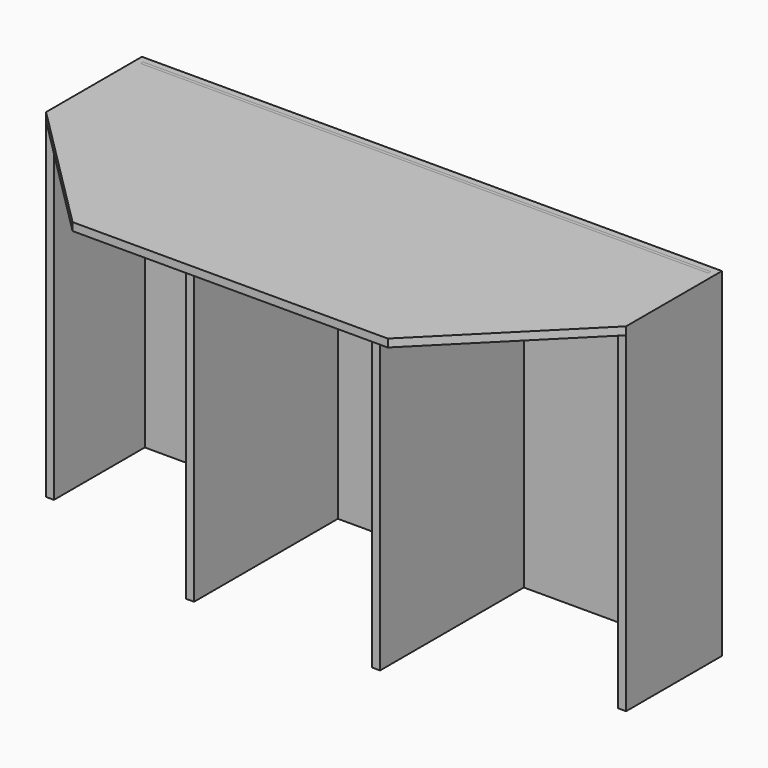
from build123d import *

# Parameters (mm, degrees)
F1_DEPTH  = 15.875
F3_DEPTH  = 666.75
F4_W      = 373.0625
F4_H      = 304.8
F4_H_2    = 50.8
F5_DEPTH  = 225.298
F6_W      = 373.0625
F6_H      = 304.8
F6_H_2    = 50.8
F7_DEPTH  = 225.298
F8_W      = 358.775
F8_H      = 304.8
F8_H_2    = 50.8
F9_DEPTH  = 358.648
F10_R     = 12.7
F11_DEPTH = 25.4
F12_R     = 12.7
F13_DEPTH = 25.4
F14_R     = 12.7
F15_DEPTH = 25.4
F16_R     = 12.7
F17_DEPTH = 25.4
F18_R     = 12.7
F19_DEPTH = 25.4
F20_R     = 12.7
F21_DEPTH = 25.4
F22_R     = 12.7
F23_DEPTH = 25.4
F24_R     = 12.7
F25_DEPTH = 25.4
F26_R     = 12.7
F27_DEPTH = 25.4
F28_W     = 358.775
F28_H     = 3.175
F29_DEPTH = 358.775
F30_W     = 358.775
F30_H     = 3.175
F31_DEPTH = 358.775
F32_W     = 373.0625
F32_H     = 3.175
F33_DEPTH = 225.425
F34_W     = 373.0625
F34_H     = 3.175
F35_DEPTH = 225.425
F36_W     = 373.0625
F36_H     = 3.175
F37_DEPTH = 225.425
F38_W     = 373.0625
F38_H     = 3.175
F39_DEPTH = 225.425
F40_W     = 1143
F40_H     = 6.35
F41_DEPTH = 50.8
F43_DEPTH = 228.6
F45_DEPTH = 228.6
F47_DEPTH = 361.95
F48_W     = 1143
F48_H     = 15.875
F49_DEPTH = 6.35


with BuildPart() as f1:
    # F0 (on Top) → F1 (new body)
    with BuildSketch(Plane.XY):
        Polygon((584.2, 254), (-584.2, 254), (-584.2, 12.7), (-317.5, -254), (317.5, -254), (584.2, 12.7), align=None)
    extrude(amount=F1_DEPTH)

    # F2 (on face) → F3 (join)
    with BuildSketch(Plane(origin=(0, 0, 0), x_dir=(1, 0, 0), z_dir=(0, 0, -1))):
        Polygon((-568.325, -12.7), (-584.2, -12.7), (-584.2, -254), (-568.325, -254), (568.325, -254), (584.2, -254), (584.2, -12.7), (568.325, -12.7), (568.325, -238.125), (195.2625, -238.125), (179.3875, -238.125), (-179.3875, -238.125), (-195.2625, -238.125), (-568.325, -238.125), align=None)
        Polygon((-195.2625, 120.65), (-195.2625, -238.125), (-179.3875, -238.125), (-179.3875, 120.65), (-187.325, 120.65), align=None)
        Polygon((179.3875, 120.65), (179.3875, -238.125), (195.2625, -238.125), (195.2625, 120.65), (187.325, 120.65), align=None)
    extrude(amount=F3_DEPTH)

    # F4 (on face) → F5 (join)
    with BuildSketch(Plane.XZ.offset(-238.125)):
        with Locations((-381.79375, -514.35)):
            Rectangle(F4_W, F4_H)
        with Locations((-381.79375, -206.375)):
            Rectangle(F4_W, F4_H)
        with Locations((-381.79375, -25.4)):
            Rectangle(F4_W, F4_H_2)
    extrude(amount=F5_DEPTH)

    # F6 (on face) → F7 (join)
    with BuildSketch(Plane.XZ.offset(-238.125)):
        with Locations((381.79375, -514.35)):
            Rectangle(F6_W, F6_H)
        with Locations((381.79375, -206.375)):
            Rectangle(F6_W, F6_H)
        with Locations((381.79375, -25.4)):
            Rectangle(F6_W, F6_H_2)
    extrude(amount=F7_DEPTH)

    # F8 (on face) → F9 (join)
    with BuildSketch(Plane.XZ.offset(-238.125)):
        with Locations((0, -514.35)):
            Rectangle(F8_W, F8_H)
        with Locations((0, -206.375)):
            Rectangle(F8_W, F8_H)
        with Locations((0, -25.4)):
            Rectangle(F8_W, F8_H_2)
    extrude(amount=F9_DEPTH)

    # F10 (on face) → F11 (join)
    with BuildSketch(Plane.XZ.offset(-12.827)):
        with Locations((-381.79375, -514.35)):
            Circle(F10_R)
    extrude(amount=F11_DEPTH)

    # F12 (on face) → F13 (join)
    with BuildSketch(Plane.XZ.offset(-12.827)):
        with Locations((-381.79375, -206.375)):
            Circle(F12_R)
    extrude(amount=F13_DEPTH)

    # F14 (on face) → F15 (join)
    with BuildSketch(Plane.XZ.offset(-12.827)):
        with Locations((-381.79375, -25.4)):
            Circle(F14_R)
    extrude(amount=F15_DEPTH)

    # F16 (on face) → F17 (join)
    with BuildSketch(Plane.XZ.offset(120.523)):
        with Locations((0, -514.35)):
            Circle(F16_R)
    extrude(amount=F17_DEPTH)

    # F18 (on face) → F19 (join)
    with BuildSketch(Plane.XZ.offset(120.523)):
        with Locations((0, -206.375)):
            Circle(F18_R)
    extrude(amount=F19_DEPTH)

    # F20 (on face) → F21 (join)
    with BuildSketch(Plane.XZ.offset(120.523)):
        with Locations((0, -25.4)):
            Circle(F20_R)
    extrude(amount=F21_DEPTH)

    # F22 (on face) → F23 (join)
    with BuildSketch(Plane.XZ.offset(-12.827)):
        with Locations((381.79375, -514.35)):
            Circle(F22_R)
    extrude(amount=F23_DEPTH)

    # F24 (on face) → F25 (join)
    with BuildSketch(Plane.XZ.offset(-12.827)):
        with Locations((381.79375, -206.375)):
            Circle(F24_R)
    extrude(amount=F25_DEPTH)

    # F26 (on face) → F27 (join)
    with BuildSketch(Plane.XZ.offset(-12.827)):
        with Locations((381.79375, -25.4)):
            Circle(F26_R)
    extrude(amount=F27_DEPTH)

    # F28 (on face) → F29 (join)
    with BuildSketch(Plane.XZ.offset(-238.125)):
        with Locations((0, -360.3625)):
            Rectangle(F28_W, F28_H)
    extrude(amount=F29_DEPTH)

    # F30 (on face) → F31 (join)
    with BuildSketch(Plane.XZ.offset(-238.125)):
        with Locations((0, -52.3875)):
            Rectangle(F30_W, F30_H)
    extrude(amount=F31_DEPTH)

    # F32 (on face) → F33 (join)
    with BuildSketch(Plane.XZ.offset(-238.125)):
        with Locations((-381.79375, -360.3625)):
            Rectangle(F32_W, F32_H)
    extrude(amount=F33_DEPTH)

    # F34 (on face) → F35 (join)
    with BuildSketch(Plane.XZ.offset(-238.125)):
        with Locations((-381.79375, -52.3875)):
            Rectangle(F34_W, F34_H)
    extrude(amount=F35_DEPTH)

    # F36 (on face) → F37 (join)
    with BuildSketch(Plane.XZ.offset(-238.125)):
        with Locations((381.79375, -52.3875)):
            Rectangle(F36_W, F36_H)
    extrude(amount=F37_DEPTH)

    # F38 (on face) → F39 (join)
    with BuildSketch(Plane.XZ.offset(-238.125)):
        with Locations((381.79375, -360.3625)):
            Rectangle(F38_W, F38_H)
    extrude(amount=F39_DEPTH)

    # F40 (on face) → F41 (cut)
    with BuildSketch(Plane.XY.offset(15.875)):
        with Locations((0, 238.125)):
            Rectangle(F40_W, F40_H)
    extrude(amount=-F41_DEPTH, mode=Mode.SUBTRACT)

    # F42 (on face) → F43 (cut, symmetric)
    with BuildSketch(Plane.XZ.offset(-12.827)):
        Polygon((-195.2625, 0), (-568.325, 0), (-568.325, -754.009426), (-195.2625, -758.519292), align=None)
    extrude(amount=F43_DEPTH, both=True, mode=Mode.SUBTRACT)

    # F44 (on face) → F45 (cut, symmetric)
    with BuildSketch(Plane.XZ.offset(-12.827)):
        Polygon((568.325, 0), (195.2625, 0), (195.2625, -771.9118), (568.325, -734.96139), align=None)
    extrude(amount=F45_DEPTH, both=True, mode=Mode.SUBTRACT)

    # F46 (on face) → F47 (cut, symmetric)
    with BuildSketch(Plane.XZ.offset(120.523)):
        Polygon((179.3875, 0), (-179.3875, 0), (-179.3875, -746.490955), (179.3875, -735.204995), align=None)
    extrude(amount=F47_DEPTH, both=True, mode=Mode.SUBTRACT)


with BuildPart() as f49:
    # F48 (on face) → F49 (new body)
    with BuildSketch(Plane.XZ.offset(-241.3)):
        with Locations((0, 7.9375)):
            Rectangle(F48_W, F48_H)
    extrude(amount=F49_DEPTH)


solid = Compound([f1.part, f49.part])
